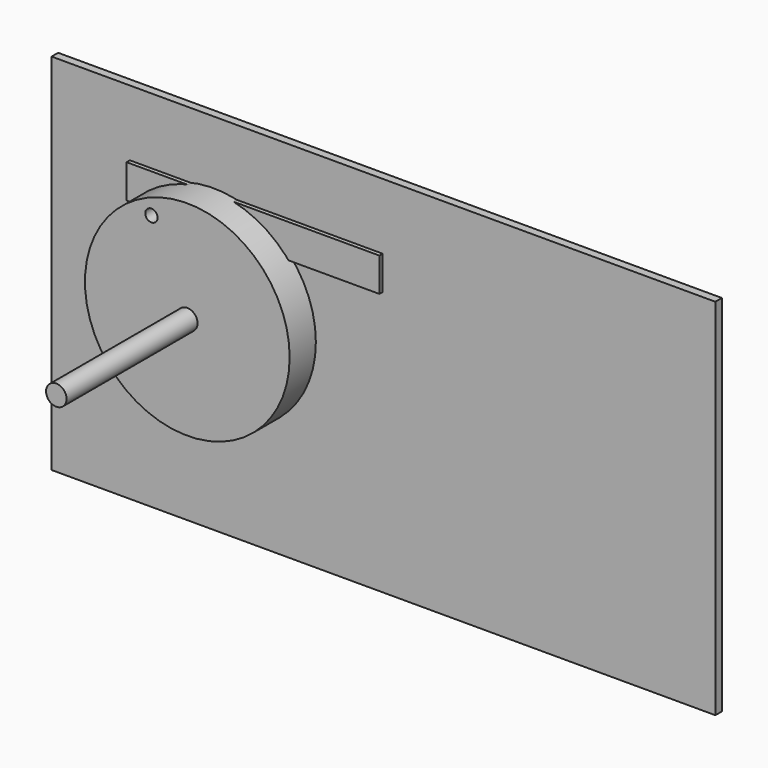
from build123d import *

# Parameters (mm, degrees)
F0_R          = 25
F0_R_2        = 1.5
F0_R_3        = 2.5
F1_DEPTH      = 10
F2_DEPTH      = 50
F2_DEPTH_BACK = 25
F3_W          = 162.1264517307
F3_H          = 88.9080502093
F4_DEPTH      = 2
F5_DEPTH      = 18
F7_DEPTH      = 3
F6_W          = 61.7528790608
F6_H          = 8.2471277565


with BuildPart() as f1:
    # F0 (on Front) → F1 (new body)
    with BuildSketch(Plane.XZ):
        with Locations((-51.7407789791, 0)):
            Circle(F0_R)
        with Locations((-60.5111941695, 19.5082370192)):
            Circle(F0_R_2, mode=Mode.SUBTRACT)
        with Locations((-51.7407789791, 0)):
            Circle(F0_R_3, mode=Mode.SUBTRACT)
    extrude(amount=F1_DEPTH)


with BuildPart() as f2:
    # F0 (on Front) → F2 (new body, two sides)
    with BuildSketch(Plane.XZ) as f2_sk:
        with Locations((-51.7407789791, 0)):
            Circle(F0_R_3)
    extrude(amount=F2_DEPTH)
    extrude(f2_sk.sketch, amount=-F2_DEPTH_BACK)


with BuildPart() as f4:
    # F3 (on Front) → F4 (new body)
    with BuildSketch(Plane.XZ):
        with Locations((-10.2238357067, -4.0262471884)):
            Rectangle(F3_W, F3_H)
    extrude(amount=F4_DEPTH)


with BuildPart() as f5:
    # F0 (on Front) → F5 (new body)
    with BuildSketch(Plane.XZ):
        with Locations((-60.5111941695, 19.5082370192)):
            Circle(F0_R_2)
    extrude(amount=-F5_DEPTH)


with BuildPart() as f7:
    # F0 (on Front) → F7 (new body)
    with BuildSketch(Plane.XZ):
        with Locations((-60.5111941695, 19.5082370192)):
            Circle(F0_R_2)
    extrude(amount=F7_DEPTH)


with BuildPart() as f7b:
    # F6 (on Front) → F7, piece 2 (new body)
    with BuildSketch(Plane.XZ):
        with Locations((-41.3014250807, 20.2122600749)):
            Rectangle(F6_W, F6_H)
    extrude(amount=F7_DEPTH)


solid = Compound([f1.part, f2.part, f4.part, f5.part, f7b.part])
